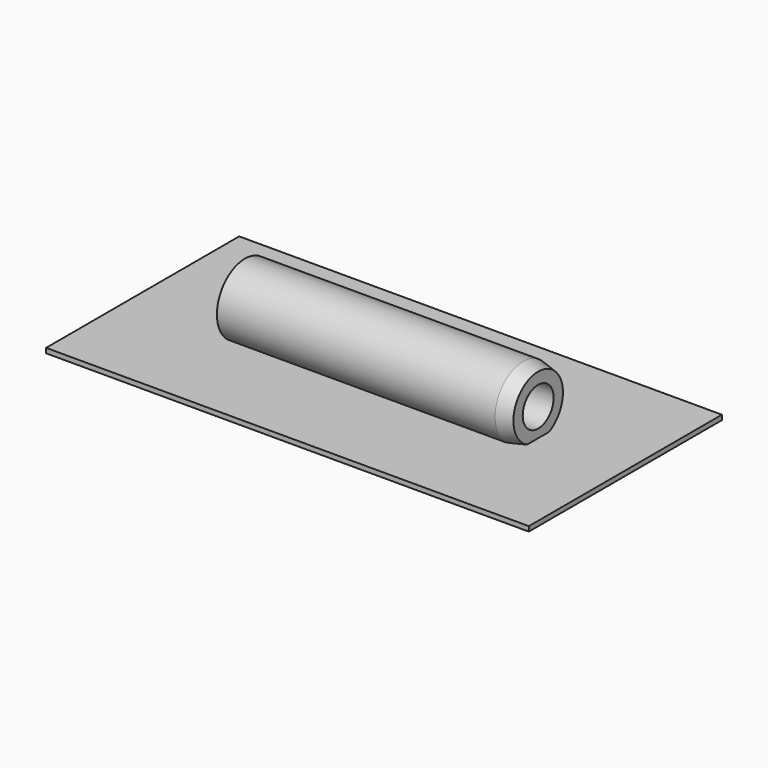
from build123d import *

# Parameters (mm, degrees)
F2_W     = 4.486534
F2_H     = 0.762
F3_DEPTH = 30.862
F4_W     = 50.8
F4_H     = 25.4
F5_DEPTH = 0.508


with BuildPart() as f1:
    # F0 (on Front) → F1 (revolve)
    with BuildSketch(Plane.XZ):
        Polygon((0, 3.683), (0, 2.667), (9.525, 2.667), (9.525, 2.032), (30.861, 2.032), (30.861, 3.257631), (29.2735, 3.683), align=None)
    revolve(axis=Axis((17.153487, 0, 0), (1, 0, 0)))

    # F2 (on face) → F3 (cut, through all)
    with BuildSketch(Plane(origin=(0, 0, 0), x_dir=(0, -1, 0), z_dir=(-1, 0, 0))):
        with Locations((0, -3.302)):
            Rectangle(F2_W, F2_H)
    extrude(amount=-F3_DEPTH, mode=Mode.SUBTRACT)

    # F4 (on face) → F5 (join)
    with BuildSketch(Plane(origin=(0, 0, -2.921), x_dir=(1, 0, 0), z_dir=(0, 0, -1))):
        with Locations((14.63675, 0)):
            Rectangle(F4_W, F4_H)
    extrude(amount=F5_DEPTH)


solid = f1.part
